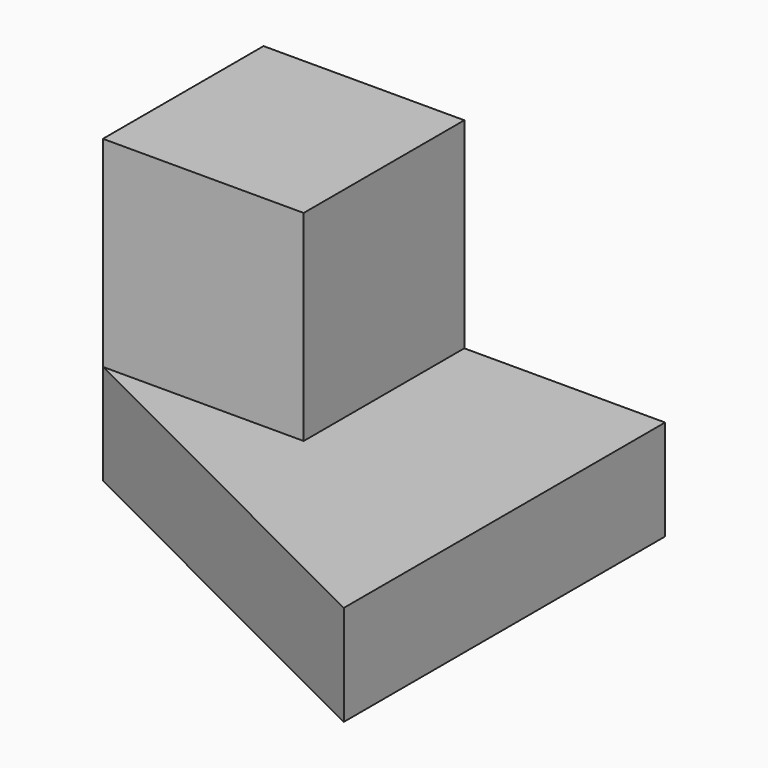
from build123d import *

# Parameters (mm, degrees)
F1_DEPTH = 20
F2_W     = 40
F2_H     = 10
F3_DEPTH = 20
F5_DEPTH = 10


with BuildPart() as f1:
    # F0 (on Front) → F1 (new body)
    with BuildSketch(Plane.XZ):
        Polygon((0, 30), (0, 0), (40, 0), (40, 10), (20, 10), (20, 30), align=None)
    extrude(amount=F1_DEPTH)

    # F2 (on face) → F3 (join)
    with BuildSketch(Plane.XZ.offset(20)):
        with Locations((20, 5)):
            Rectangle(F2_W, F2_H)
    extrude(amount=F3_DEPTH)

    # F4 (on face) → F5 (cut)
    with BuildSketch(Plane.XY.offset(10)):
        Polygon((40, -40), (0, -20), (0, -40), align=None)
    extrude(amount=-F5_DEPTH, mode=Mode.SUBTRACT)


solid = f1.part
